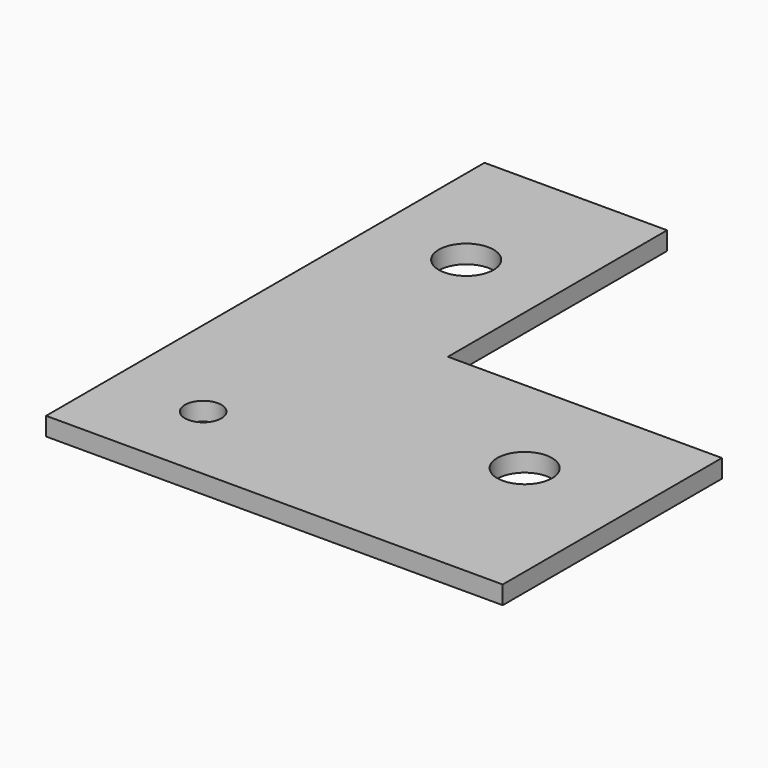
from build123d import *

# Parameters (mm, degrees)
F0_R     = 2
F0_R_2   = 3
F1_DEPTH = 2


with BuildPart() as f1:
    # F0 (on Top) → F1 (new body)
    with BuildSketch(Plane.XY):
        Polygon((-25, -30), (25, -30), (25, 0), (-5, 0), (-5, 30), (-25, 30), align=None)
        with Locations((-15, -21)):
            Circle(F0_R, mode=Mode.SUBTRACT)
        with Locations((13, -12)):
            Circle(F0_R_2, mode=Mode.SUBTRACT)
        with Locations((-15, 15)):
            Circle(F0_R_2, mode=Mode.SUBTRACT)
    extrude(amount=-F1_DEPTH)


solid = f1.part
